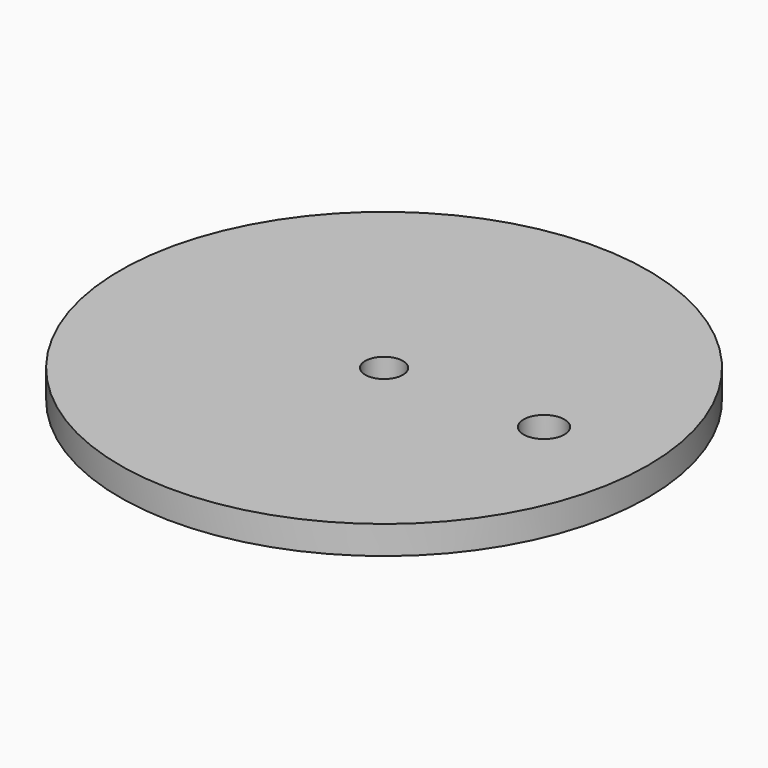
from build123d import *

# Parameters (mm, degrees)
F0_R     = 14
F0_R_2   = 1
F1_DEPTH = 1.5
F2_R     = 1.084756
F3_DEPTH = 1.5


with BuildPart() as f1:
    # F0 (on Top) → F1 (new body)
    with BuildSketch(Plane.XY):
        Circle(F0_R)
        Circle(F0_R_2, mode=Mode.SUBTRACT)
    extrude(amount=F1_DEPTH)

    # F2 (on face) → F3 (cut, through all)
    with BuildSketch(Plane.XY.offset(1.5)):
        with Locations((8.482786, 0)):
            Circle(F2_R)
    extrude(amount=-F3_DEPTH, mode=Mode.SUBTRACT)


solid = f1.part
